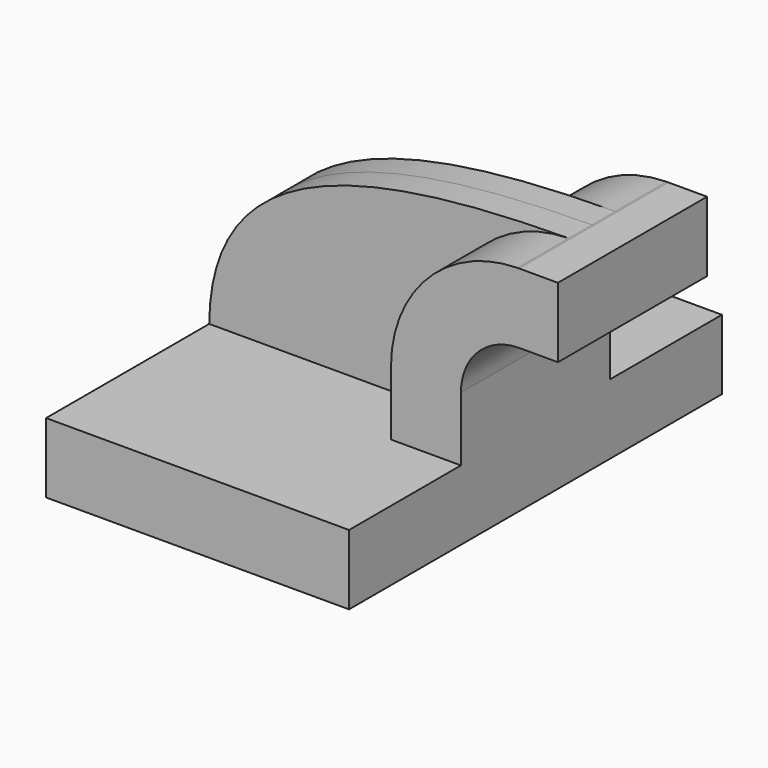
from build123d import *

# Parameters (mm, degrees)
F1_DEPTH = 63.5
F2_DEPTH = 25.4
F3_DEPTH = 7.9375


with BuildPart() as f1:
    # F0 (on Front) → F1 (new body, symmetric)
    with BuildSketch(Plane.XZ):
        Polygon((22.225, 9.525), (-41.275, 9.525), (-41.275, -9.525), (41.275, -9.525), (41.275, 9.525), align=None)
    extrude(amount=F1_DEPTH, both=True)

    # F0 (on Front) → F2 (join, symmetric)
    with BuildSketch(Plane.XZ):
        with BuildLine():
            Line((22.225, 27.0002), (22.225, 9.525))
            Line((22.225, 9.525), (41.275, 9.525))
            Line((41.275, 9.525), (41.275, 27.0002))
            ThreePointArc((41.275, 27.0002), (45.92468, 38.22552), (57.15, 42.8752))
            Line((57.15, 42.8752), (67.710114, 42.8752))
            Line((67.710114, 42.8752), (67.710114, 61.9252))
            Line((67.710114, 61.9252), (57.15, 61.9252))
            add(Edge.make_bspline(
                [(56.676443, 61.921989), (56.834171, 61.923134), (56.992024, 61.924204), (57.15, 61.9252)],
                knots=[111.196311, 111.196311, 111.196311, 111.196311, 111.504536, 111.504536, 111.504536, 111.504536], degree=3))
            ThreePointArc((56.676443, 61.921989), (32.287432, 51.527905), (22.225, 27.0002))
        make_face()
    extrude(amount=F2_DEPTH, both=True)

    # F0 (on Front) → F3 (join, symmetric)
    with BuildSketch(Plane.XZ):
        with BuildLine():
            add(Edge.make_bspline(
                [(-41.275, 9.525), (-40.923248, 51.417116), (-0.225928, 61.509118), (56.676443, 61.921989)],
                knots=[0, 0, 0, 0, 111.196311, 111.196311, 111.196311, 111.196311], degree=3))
            Line((-41.275, 9.525), (22.225, 9.525))
            Line((22.225, 9.525), (22.225, 27.0002))
            ThreePointArc((22.225, 27.0002), (32.287432, 51.527905), (56.676443, 61.921989))
        make_face()
    extrude(amount=F3_DEPTH, both=True)


solid = f1.part
